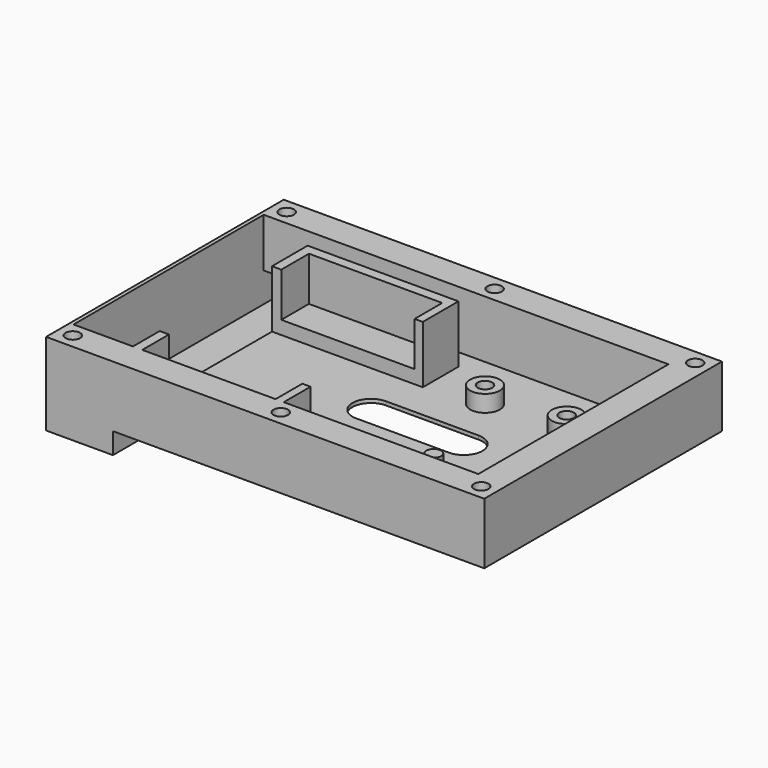
from build123d import *

# Parameters (mm, degrees)
PAD_DEPTH       = 40
POCKET_DEPTH    = 32
POCKET001_DEPTH = 1
SKETCH007_R     = 4
SKETCH007_R_2   = 1.95
SKETCH007_R_3   = 2
PAD005_DEPTH    = 5.5
SKETCH008_W     = 16
SKETCH008_H     = 8
POCKET002_DEPTH = 39
SKETCH013_R     = 1.95
POCKET003_DEPTH = 8
SKETCH018_W     = 40.6
SKETCH018_H     = 12
SKETCH018_H_2   = 9
PAD012_DEPTH    = 16.5
SKETCH019_W     = 35.9
SKETCH019_H     = 56.1
POCKET006_DEPTH = 11.9


with BuildPart() as part:
    # Sketch → Pad (new body, symmetric)
    with BuildSketch(Plane.XZ):
        Polygon((-59, 16.5), (-59, -5.7), (-41, -5.7), (-41, 0), (59, 0), (59, 16.5), align=None)
    extrude(amount=PAD_DEPTH, both=True)

    # Sketch001 → Pocket (cut, symmetric)
    with BuildSketch(Plane.XZ):
        Polygon((-42, 1), (51, 1), (51, 17.5), (-58, 17.5), (-58, -4.7), (-42, -4.7), align=None)
    extrude(amount=POCKET_DEPTH, both=True, mode=Mode.SUBTRACT)

    # Sketch004 → Pocket001 (cut)
    with BuildSketch(Plane.XY):
        with BuildLine():
            ThreePointArc((-3.5, 5), (-8.5, 0), (-3.5, -5))
            Line((-3.5, -5), (21.5, -5))
            ThreePointArc((21.5, -5), (26.5, 0), (21.5, 5))
            Line((21.5, 5), (-3.5, 5))
        make_face()
    extrude(amount=POCKET001_DEPTH, mode=Mode.SUBTRACT)

    # Sketch007 → Pad005 (join)
    with BuildSketch(Plane.XY):
        with Locations((13.6, 17)):
            Circle(SKETCH007_R)
        with Locations((13.6, 17)):
            Circle(SKETCH007_R_2, mode=Mode.SUBTRACT)
        with Locations((35.6, 17)):
            Circle(SKETCH007_R)
        with Locations((35.6, 17)):
            Circle(SKETCH007_R_2, mode=Mode.SUBTRACT)
        with Locations((24.6, -14)):
            Circle(SKETCH007_R_3)
    extrude(amount=PAD005_DEPTH)

    # Sketch008 → Pocket002 (cut, symmetric)
    with BuildSketch(Plane.XZ):
        with Locations((-50, -0.7)):
            Rectangle(SKETCH008_W, SKETCH008_H)
    extrude(amount=POCKET002_DEPTH, both=True, mode=Mode.SUBTRACT)

    # Sketch013 (on DatumPlane) → Pocket003 (cut)
    with BuildSketch(Plane.XY.offset(16.5)):
        with Locations((-55, 36)):
            Circle(SKETCH013_R)
        with Locations((1, 36)):
            Circle(SKETCH013_R)
        with Locations((55, 36)):
            Circle(SKETCH013_R)
        with Locations((55, -36)):
            Circle(SKETCH013_R)
        with Locations((1, -36)):
            Circle(SKETCH013_R)
        with Locations((-55, -36)):
            Circle(SKETCH013_R)
    extrude(amount=-POCKET003_DEPTH, mode=Mode.SUBTRACT)

    # Sketch018 → Pad012 (join)
    with BuildSketch(Plane.XY):
        with Locations((-21.7, 20.8)):
            Rectangle(SKETCH018_W, SKETCH018_H)
        with Locations((-21.7, -27.5)):
            Rectangle(SKETCH018_W, SKETCH018_H_2)
    extrude(amount=PAD012_DEPTH)

    # Sketch019 (on DatumPlane) → Pocket006 (cut)
    with BuildSketch(Plane.XY.offset(16.5)):
        with Locations((-21.55, -3.95)):
            Rectangle(SKETCH019_W, SKETCH019_H)
    extrude(amount=-POCKET006_DEPTH, mode=Mode.SUBTRACT)


solid = part.part
